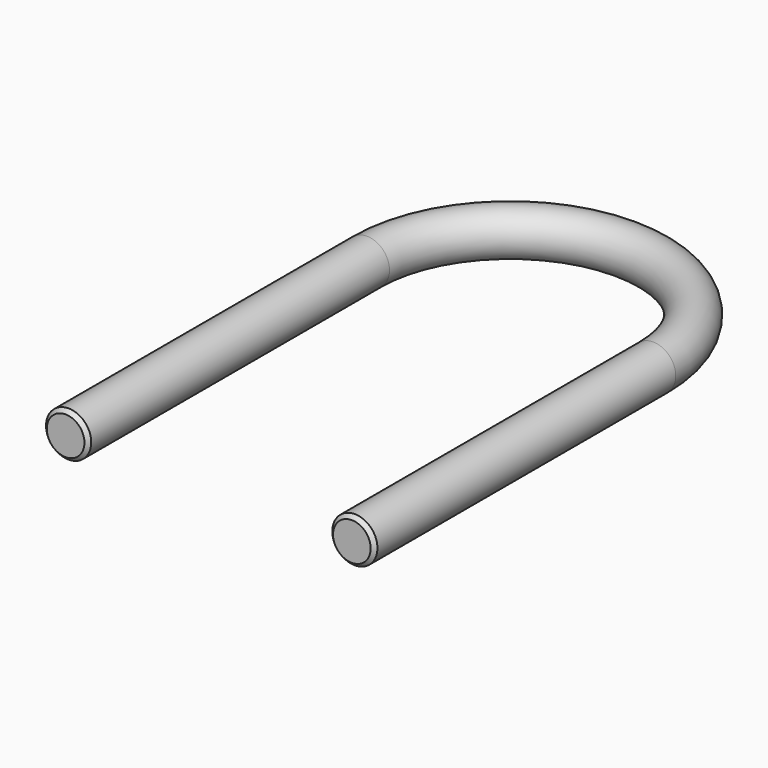
from build123d import *

# Parameters (mm, degrees)
F2_R    = 3
F4_SIZE = 0.5


with BuildPart() as f3:
    # F3: sweep along a path in F0
    with BuildLine(Plane.XY) as f3_path:
        Line((-19, -50), (-19, 0))
        ThreePointArc((-19, 0), (0, 19), (19, 0))
        Line((19, 0), (19, -50))
    # F2 (on plane+point) → F3 (sweep)
    with BuildSketch(Plane.XZ.offset(50)):
        with Locations((-19, 0)):
            Circle(F2_R)
    sweep(path=f3_path.line)

    # F4
    f4_edges = [f3.edges().sort_by_distance(p)[0] for p in [
        (-22, -50, 0),
        (22, -50, 0),
    ]]
    chamfer(f4_edges, length=F4_SIZE)


solid = f3.part
